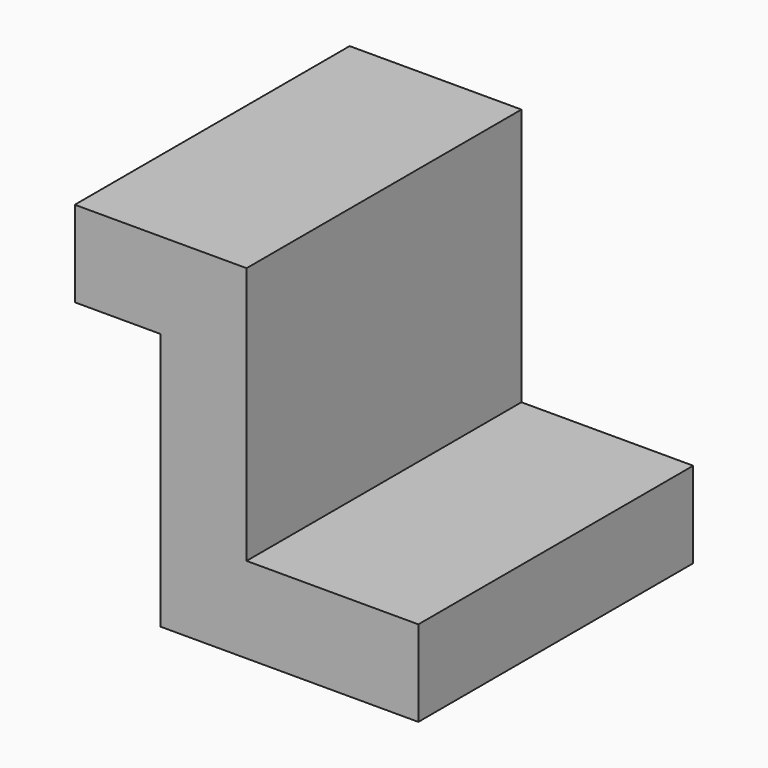
from build123d import *

# Parameters (mm, degrees)
F1_DEPTH  = 101.6
F2_W      = 24.118604
F2_H      = 41.721998
F3_DEPTH  = 25.4
F3_FACE_W = 41.721998
F3_FACE_H = 25.4
F4_DEPTH  = 25.4
F5_W      = 30.931834
F5_H      = 6.72964
F6_DEPTH  = 25.4
F6_FACE_W = 30.931834
F6_FACE_H = 6.72964
F7_DEPTH  = 25.4


with BuildPart() as f1:
    # F0 (on Front) → F1 (new body)
    with BuildSketch(Plane.XZ):
        Polygon((-50.8, 54.896776), (-101.6, 54.896776), (-101.6, 29.496776), (-76.2, 29.496776), (-76.2, -46.703224), (0, -46.703224), (0, -21.303224), (-50.8, -21.303224), align=None)
    extrude(amount=F1_DEPTH)

    # F2 (on face) → F3 (cut)
    with BuildSketch(Plane.XY.offset(-21.303224)):
        with Locations((-25.153528, -49.516448)):
            Rectangle(F2_W, F2_H)
    extrude(amount=-F3_DEPTH, mode=Mode.SUBTRACT)

    # F3_face (on face) → F4 (join)
    with BuildSketch(Plane(origin=(-37.21283, -49.516448, -34.003224), x_dir=(0, 1, 0), z_dir=(1, 0, 0))):
        Rectangle(F3_FACE_W, F3_FACE_H)
    extrude(amount=F4_DEPTH)

    # F5 (on face) → F6 (cut)
    with BuildSketch(Plane.YZ):
        with Locations((-40.865911, -33.525225)):
            Rectangle(F5_W, F5_H)
    extrude(amount=-F6_DEPTH, mode=Mode.SUBTRACT)

    # F6_face (on face) → F7 (join)
    with BuildSketch(Plane(origin=(-25.4, -40.865911, -33.525225), x_dir=(0, 1, 0), z_dir=(1, 0, 0))):
        Rectangle(F6_FACE_W, F6_FACE_H)
    extrude(amount=F7_DEPTH)


solid = f1.part
